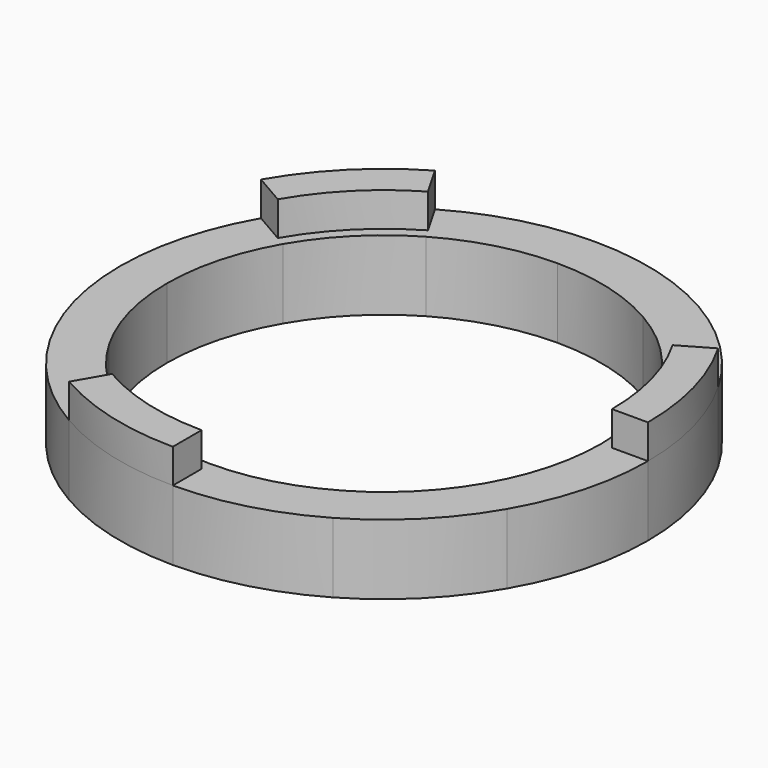
from build123d import *

# Parameters (mm, degrees)
F1_DEPTH = 3.8606161252
F2_DEPTH = 7.9230344854


with BuildPart() as f1:
    # F0 (on Top) → F1 (new body)
    with BuildSketch(Plane.XY):
        with BuildLine():
            Line((25.7986287249, 0), (29.8681490033, 0))
            ThreePointArc((29.8681490033, 0), (28.8504165057, 7.730445804), (25.8665758009, 14.9340745016))
            Line((25.8665758009, 14.9340745016), (22.3422678585, 12.8993143624))
            ThreePointArc((22.3422678585, 12.8993143624), (24.9195617682, 6.6771764515), (25.7986287249, 0))
        make_face()
    extrude(amount=F1_DEPTH)


with BuildPart() as f1b:
    # F0 (on Top) → F1, piece 2 (new body)
    with BuildSketch(Plane.XY):
        with BuildLine():
            Line((-12.8993143624, 22.3422678585), (-14.9340745016, 25.8665758009))
            ThreePointArc((-14.9340745016, 25.8665758009), (-21.1199707017, 21.1199707017), (-25.8665758009, 14.9340745016))
            Line((-25.8665758009, 14.9340745016), (-22.3422678585, 12.8993143624))
            ThreePointArc((-22.3422678585, 12.8993143624), (-18.2423853167, 18.2423853167), (-12.8993143624, 22.3422678585))
        make_face()
    extrude(amount=F1_DEPTH)


with BuildPart() as f1c:
    # F0 (on Top) → F1, piece 3 (new body)
    with BuildSketch(Plane.XY):
        with BuildLine():
            ThreePointArc((-14.9340745016, -25.8665758009), (-7.730445804, -28.8504165057), (0, -29.8681490033))
            Line((0, -29.8681490033), (0, -25.7986287249))
            ThreePointArc((0, -25.7986287249), (-6.6771764515, -24.9195617682), (-12.8993143624, -22.3422678585))
            Line((-12.8993143624, -22.3422678585), (-14.9340745016, -25.8665758009))
        make_face()
    extrude(amount=F1_DEPTH)


with BuildPart() as f2:
    # F0 (on Top) → F2 (new body)
    with BuildSketch(Plane.XY):
        with BuildLine():
            ThreePointArc((-29.8681490033, 0), (-28.8504165057, -7.730445804), (-25.8665758009, -14.9340745016))
            Line((-25.8665758009, -14.9340745016), (-22.3422678585, -12.8993143624))
            ThreePointArc((-22.3422678585, -12.8993143624), (-24.9195617682, -6.6771764515), (-25.7986287249, 0))
            Line((-25.7986287249, 0), (-29.8681490033, 0))
        make_face()
        with BuildLine():
            ThreePointArc((-21.2796921999, -12.2858360199), (-23.7344126183, -6.3596166939), (-24.5716720398, 0))
            Line((-24.5716720398, 0), (-25.7986287249, 0))
            ThreePointArc((-25.7986287249, 0), (-24.9195617682, -6.6771764515), (-22.3422678585, -12.8993143624))
            Line((-22.3422678585, -12.8993143624), (-21.2796921999, -12.2858360199))
        make_face()
        with BuildLine():
            ThreePointArc((-25.8665758009, -14.9340745016), (-21.1199707017, -21.1199707017), (-14.9340745016, -25.8665758009))
            Line((-14.9340745016, -25.8665758009), (-12.8993143624, -22.3422678585))
            ThreePointArc((-12.8993143624, -22.3422678585), (-18.2423853167, -18.2423853167), (-22.3422678585, -12.8993143624))
            Line((-22.3422678585, -12.8993143624), (-25.8665758009, -14.9340745016))
        make_face()
        with BuildLine():
            ThreePointArc((-12.2858360199, -21.2796921999), (-17.3747959244, -17.3747959244), (-21.2796921999, -12.2858360199))
            Line((-21.2796921999, -12.2858360199), (-22.3422678585, -12.8993143624))
            ThreePointArc((-22.3422678585, -12.8993143624), (-18.2423853167, -18.2423853167), (-12.8993143624, -22.3422678585))
            Line((-12.8993143624, -22.3422678585), (-12.2858360199, -21.2796921999))
        make_face()
        with BuildLine():
            ThreePointArc((-12.8993143624, -22.3422678585), (-6.6771764515, -24.9195617682), (0, -25.7986287249))
            Line((0, -25.7986287249), (0, -24.5716720398))
            ThreePointArc((0, -24.5716720398), (-6.3596166939, -23.7344126183), (-12.2858360199, -21.2796921999))
            Line((-12.2858360199, -21.2796921999), (-12.8993143624, -22.3422678585))
        make_face()
        with BuildLine():
            ThreePointArc((-14.9340745016, -25.8665758009), (-7.730445804, -28.8504165057), (0, -29.8681490033))
            Line((0, -29.8681490033), (0, -25.7986287249))
            ThreePointArc((0, -25.7986287249), (-6.6771764515, -24.9195617682), (-12.8993143624, -22.3422678585))
            Line((-12.8993143624, -22.3422678585), (-14.9340745016, -25.8665758009))
        make_face()
        with BuildLine():
            ThreePointArc((0, -29.8681490033), (7.730445804, -28.8504165057), (14.9340745016, -25.8665758009))
            Line((14.9340745016, -25.8665758009), (12.8993143624, -22.3422678585))
            ThreePointArc((12.8993143624, -22.3422678585), (6.6771764515, -24.9195617682), (0, -25.7986287249))
            Line((0, -25.7986287249), (0, -29.8681490033))
        make_face()
        with BuildLine():
            ThreePointArc((0, -25.7986287249), (6.6771764515, -24.9195617682), (12.8993143624, -22.3422678585))
            Line((12.8993143624, -22.3422678585), (12.2858360199, -21.2796921999))
            ThreePointArc((12.2858360199, -21.2796921999), (6.3596166939, -23.7344126183), (0, -24.5716720398))
            Line((0, -24.5716720398), (0, -25.7986287249))
        make_face()
        with BuildLine():
            ThreePointArc((14.9340745016, -25.8665758009), (21.1199707017, -21.1199707017), (25.8665758009, -14.9340745016))
            Line((25.8665758009, -14.9340745016), (22.3422678585, -12.8993143624))
            ThreePointArc((22.3422678585, -12.8993143624), (18.2423853167, -18.2423853167), (12.8993143624, -22.3422678585))
            Line((12.8993143624, -22.3422678585), (14.9340745016, -25.8665758009))
        make_face()
        with BuildLine():
            ThreePointArc((12.8993143624, -22.3422678585), (18.2423853167, -18.2423853167), (22.3422678585, -12.8993143624))
            Line((22.3422678585, -12.8993143624), (21.2796921999, -12.2858360199))
            ThreePointArc((21.2796921999, -12.2858360199), (17.3747959244, -17.3747959244), (12.2858360199, -21.2796921999))
            Line((12.2858360199, -21.2796921999), (12.8993143624, -22.3422678585))
        make_face()
        with BuildLine():
            ThreePointArc((22.3422678585, -12.8993143624), (24.9195617682, -6.6771764515), (25.7986287249, 0))
            Line((25.7986287249, 0), (24.5716720398, 0))
            ThreePointArc((24.5716720398, 0), (23.7344126183, -6.3596166939), (21.2796921999, -12.2858360199))
            Line((21.2796921999, -12.2858360199), (22.3422678585, -12.8993143624))
        make_face()
        with BuildLine():
            ThreePointArc((25.8665758009, -14.9340745016), (28.8504165057, -7.730445804), (29.8681490033, 0))
            Line((29.8681490033, 0), (25.7986287249, 0))
            ThreePointArc((25.7986287249, 0), (24.9195617682, -6.6771764515), (22.3422678585, -12.8993143624))
            Line((22.3422678585, -12.8993143624), (25.8665758009, -14.9340745016))
        make_face()
        with BuildLine():
            Line((25.7986287249, 0), (29.8681490033, 0))
            ThreePointArc((29.8681490033, 0), (28.8504165057, 7.730445804), (25.8665758009, 14.9340745016))
            Line((25.8665758009, 14.9340745016), (22.3422678585, 12.8993143624))
            ThreePointArc((22.3422678585, 12.8993143624), (24.9195617682, 6.6771764515), (25.7986287249, 0))
        make_face()
        with BuildLine():
            Line((-12.8993143624, 22.3422678585), (-14.9340745016, 25.8665758009))
            ThreePointArc((-14.9340745016, 25.8665758009), (-21.1199707017, 21.1199707017), (-25.8665758009, 14.9340745016))
            Line((-25.8665758009, 14.9340745016), (-22.3422678585, 12.8993143624))
            ThreePointArc((-22.3422678585, 12.8993143624), (-18.2423853167, 18.2423853167), (-12.8993143624, 22.3422678585))
        make_face()
        with BuildLine():
            Line((22.3422678585, 12.8993143624), (25.8665758009, 14.9340745016))
            ThreePointArc((25.8665758009, 14.9340745016), (21.1199707017, 21.1199707017), (14.9340745016, 25.8665758009))
            Line((14.9340745016, 25.8665758009), (12.8993143624, 22.3422678585))
            ThreePointArc((12.8993143624, 22.3422678585), (18.2423853167, 18.2423853167), (22.3422678585, 12.8993143624))
        make_face()
        with BuildLine():
            Line((12.8993143624, 22.3422678585), (14.9340745016, 25.8665758009))
            ThreePointArc((14.9340745016, 25.8665758009), (7.730445804, 28.8504165057), (0, 29.8681490033))
            Line((0, 29.8681490033), (0, 25.7986287249))
            ThreePointArc((0, 25.7986287249), (6.6771764515, 24.9195617682), (12.8993143624, 22.3422678585))
        make_face()
        with BuildLine():
            Line((0, 25.7986287249), (0, 29.8681490033))
            ThreePointArc((0, 29.8681490033), (-7.730445804, 28.8504165057), (-14.9340745016, 25.8665758009))
            Line((-14.9340745016, 25.8665758009), (-12.8993143624, 22.3422678585))
            ThreePointArc((-12.8993143624, 22.3422678585), (-6.6771764515, 24.9195617682), (0, 25.7986287249))
        make_face()
        with BuildLine():
            Line((-22.3422678585, 12.8993143624), (-25.8665758009, 14.9340745016))
            ThreePointArc((-25.8665758009, 14.9340745016), (-28.8504165057, 7.730445804), (-29.8681490033, 0))
            Line((-29.8681490033, 0), (-25.7986287249, 0))
            ThreePointArc((-25.7986287249, 0), (-24.9195617682, 6.6771764515), (-22.3422678585, 12.8993143624))
        make_face()
        with BuildLine():
            ThreePointArc((-24.5716720398, 0), (-23.7344126183, 6.3596166939), (-21.2796921999, 12.2858360199))
            Line((-21.2796921999, 12.2858360199), (-22.3422678585, 12.8993143624))
            ThreePointArc((-22.3422678585, 12.8993143624), (-24.9195617682, 6.6771764515), (-25.7986287249, 0))
            Line((-25.7986287249, 0), (-24.5716720398, 0))
        make_face()
        with BuildLine():
            ThreePointArc((-21.2796921999, 12.2858360199), (-17.3747959244, 17.3747959244), (-12.2858360199, 21.2796921999))
            Line((-12.2858360199, 21.2796921999), (-12.8993143624, 22.3422678585))
            ThreePointArc((-12.8993143624, 22.3422678585), (-18.2423853167, 18.2423853167), (-22.3422678585, 12.8993143624))
            Line((-22.3422678585, 12.8993143624), (-21.2796921999, 12.2858360199))
        make_face()
        with BuildLine():
            Line((0, 24.5716720398), (0, 25.7986287249))
            ThreePointArc((0, 25.7986287249), (-6.6771764515, 24.9195617682), (-12.8993143624, 22.3422678585))
            Line((-12.8993143624, 22.3422678585), (-12.2858360199, 21.2796921999))
            ThreePointArc((-12.2858360199, 21.2796921999), (-6.3596166939, 23.7344126183), (0, 24.5716720398))
        make_face()
        with BuildLine():
            Line((12.2858360199, 21.2796921999), (12.8993143624, 22.3422678585))
            ThreePointArc((12.8993143624, 22.3422678585), (6.6771764515, 24.9195617682), (0, 25.7986287249))
            Line((0, 25.7986287249), (0, 24.5716720398))
            ThreePointArc((0, 24.5716720398), (6.3596166939, 23.7344126183), (12.2858360199, 21.2796921999))
        make_face()
        with BuildLine():
            Line((21.2796921999, 12.2858360199), (22.3422678585, 12.8993143624))
            ThreePointArc((22.3422678585, 12.8993143624), (18.2423853167, 18.2423853167), (12.8993143624, 22.3422678585))
            Line((12.8993143624, 22.3422678585), (12.2858360199, 21.2796921999))
            ThreePointArc((12.2858360199, 21.2796921999), (17.3747959244, 17.3747959244), (21.2796921999, 12.2858360199))
        make_face()
        with BuildLine():
            Line((24.5716720398, 0), (25.7986287249, 0))
            ThreePointArc((25.7986287249, 0), (24.9195617682, 6.6771764515), (22.3422678585, 12.8993143624))
            Line((22.3422678585, 12.8993143624), (21.2796921999, 12.2858360199))
            ThreePointArc((21.2796921999, 12.2858360199), (23.7344126183, 6.3596166939), (24.5716720398, 0))
        make_face()
    extrude(amount=-F2_DEPTH)


solid = Compound([f1.part, f1b.part, f1c.part, f2.part])
